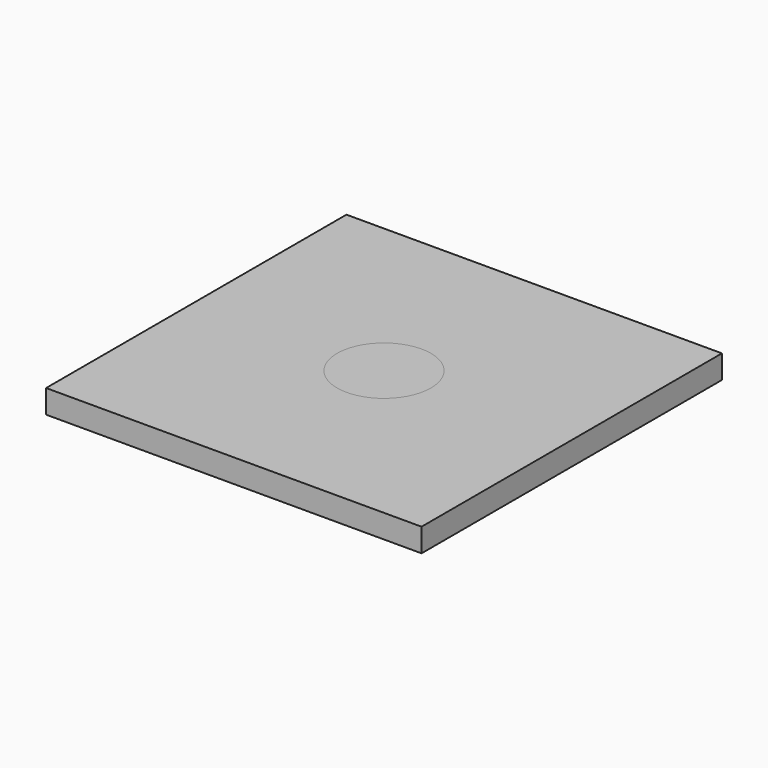
from build123d import *

# Parameters (mm, degrees)
F0_W     = 50.8
F0_H     = 50.8
F1_DEPTH = 3.175
F2_R     = 6.35
F3_DEPTH = 3.175


with BuildPart() as f1:
    # F0 (on Top) → F1 (new body)
    with BuildSketch(Plane.XY):
        Rectangle(F0_W, F0_H)
    extrude(amount=F1_DEPTH)


with BuildPart() as f3:
    # F2 (on Top) → F3 (new body)
    with BuildSketch(Plane.XY):
        Circle(F2_R)
    extrude(amount=F3_DEPTH)


solid = Compound([f1.part, f3.part])
